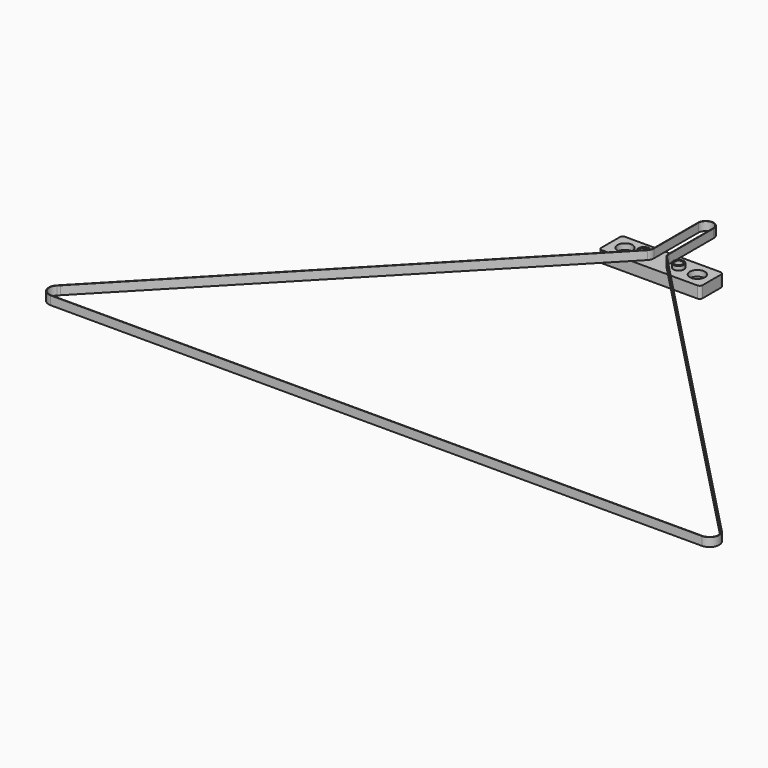
from build123d import *

# Parameters (mm, degrees)
F1_DEPTH  = 6
F2_W      = 70
F2_H      = 20
F2_R      = 2.65
F3_DEPTH  = 8
F4_R      = 5.25
F5_DEPTH  = 4
F6_R      = 3.65
F6_R_2    = 2.65
F7_DEPTH  = 2.8
F8_R      = 2
F10_DEPTH = 5
F12_R     = 2.65
F13_DEPTH = 0.3


with BuildPart() as f1:
    # F0 (on Top) → F1 (new body)
    with BuildSketch(Plane.XY):
        with BuildLine():
            ThreePointArc((-225, -6.365), (-230.8578482619, -2.4897467223), (-229.5827363738, 4.4172109219))
            Line((-229.5827363738, 4.4172109219), (-230.9895193158, 2.9577116773))
            ThreePointArc((-230.9895193158, 2.9577116773), (-230.6736193917, -3.5259669593), (-225, -6.68))
            Line((-225, -6.68), (225, -6.68))
            ThreePointArc((225, -6.68), (231.1477495637, -2.6129629354), (229.8095334569, 4.635815778))
            Line((229.8095334569, 4.635815778), (6.8366507541, 235.9641494927))
            ThreePointArc((6.8366507541, 235.9641494927), (5.780105059, 237.5935916502), (5.41, 239.5))
            Line((5.41, 239.5), (5.41, 278))
            ThreePointArc((5.41, 278), (5.3315361416, 278.9180535776), (5.0984205651, 279.809477201))
            Line((5.0984205651, 279.809477201), (5.095, 279.8136729438))
            Line((5.095, 279.8136729438), (5.095, 279.8190863091))
            ThreePointArc((5.095, 279.8190863091), (0, 283.41), (-5.095, 279.8190863091))
            Line((-5.095, 279.8190863091), (-5.095, 279.8136729438))
            Line((-5.095, 279.8136729438), (-5.0984205651, 279.809477201))
            ThreePointArc((-5.0984205651, 279.809477201), (-5.3315361416, 278.9180535776), (-5.41, 278))
            Line((-5.41, 278), (-5.41, 239.5))
            ThreePointArc((-5.41, 239.5), (-5.780105059, 237.5935916502), (-6.8366507541, 235.9641494927))
            Line((-6.8366507541, 235.9641494927), (-229.8095334569, 4.635815778))
            ThreePointArc((-229.8095334569, 4.635815778), (-229.040662868, 5.3193461616), (-228.1759538737, 5.876709708))
            Line((-228.1759538737, 5.876709708), (-6.609853892, 235.7455444074))
            ThreePointArc((-6.609853892, 235.7455444074), (-5.4879869223, 237.475727346), (-5.095, 239.5))
            Line((-5.095, 239.5), (-5.095, 278))
            ThreePointArc((-5.095, 278), (0, 283.095), (5.095, 278))
            Line((5.095, 278), (5.095, 239.5))
            ThreePointArc((5.095, 239.5), (5.5088128874, 237.4248579962), (6.6869461501, 235.6671727408))
            Line((6.6869461501, 235.6671727408), (229.4920356293, 4.5094169141))
            ThreePointArc((229.4920356293, 4.5094169141), (230.8828421557, -2.4301014734), (225, -6.365))
            Line((225, -6.365), (-225, -6.365))
        make_face()
        with BuildLine():
            Line((-230.9895193158, 2.9577116773), (-229.5827363738, 4.4172109219))
            Line((-229.5827363738, 4.4172109219), (-228.1759538737, 5.876709708))
            ThreePointArc((-228.1759538737, 5.876709708), (-229.040662868, 5.3193461616), (-229.8095334569, 4.635815778))
            ThreePointArc((-229.8095334569, 4.635815778), (-230.4643291939, 3.8423308629), (-230.9895193158, 2.9577116773))
        make_face()
        with BuildLine():
            ThreePointArc((-5.095, 279.8190863091), (-5.0967125471, 279.8142825612), (-5.0984205651, 279.809477201))
            Line((-5.0984205651, 279.809477201), (-5.095, 279.8136729438))
            Line((-5.095, 279.8136729438), (-5.095, 279.8190863091))
        make_face()
        with BuildLine():
            ThreePointArc((5.0984205651, 279.809477201), (5.0967125471, 279.8142825612), (5.095, 279.8190863091))
            Line((5.095, 279.8190863091), (5.095, 279.8136729438))
            Line((5.095, 279.8136729438), (5.0984205651, 279.809477201))
        make_face()
    extrude(amount=F1_DEPTH)


with BuildPart() as f3:
    # F2 (on Top) → F3 (new body)
    with BuildSketch(Plane.XY):
        with Locations((0, 239.5)):
            Rectangle(F2_W, F2_H)
        with Locations((-25, 239.5)):
            Circle(F2_R, mode=Mode.SUBTRACT)
        with Locations((-12.005, 239.5)):
            Circle(F2_R, mode=Mode.SUBTRACT)
        with Locations((12.005, 239.5)):
            Circle(F2_R, mode=Mode.SUBTRACT)
        with Locations((25, 239.5)):
            Circle(F2_R, mode=Mode.SUBTRACT)
    extrude(amount=F3_DEPTH)

    # F4 (on face) → F5 (cut)
    with BuildSketch(Plane.XY.offset(8)):
        with Locations((-25, 239.5)):
            Circle(F4_R)
        with Locations((25, 239.5)):
            Circle(F4_R)
    extrude(amount=-F5_DEPTH, mode=Mode.SUBTRACT)

    # F6 (on face) → F7 (join)
    with BuildSketch(Plane.XY.offset(8)):
        with Locations((-12.005, 239.5)):
            Circle(F6_R)
        with Locations((-12.005, 239.5)):
            Circle(F6_R_2, mode=Mode.SUBTRACT)
        with Locations((12.005, 239.5)):
            Circle(F6_R)
        with Locations((12.005, 239.5)):
            Circle(F6_R_2, mode=Mode.SUBTRACT)
    extrude(amount=F7_DEPTH)

    # F8
    f8_edges = [f3.edges().sort_by_distance(p)[0] for p in [
        (-35, 229.5, 4),
        (-35, 249.5, 4),
        (35, 249.5, 4),
        (35, 229.5, 4),
    ]]
    fillet(f8_edges, radius=F8_R)

    # F9 (on face) → F10 (cut)
    with BuildSketch(Plane(origin=(0, 0, 0), x_dir=(1, 0, 0), z_dir=(0, 0, -1))):
        Polygon((-8.005, -241.8094010768), (-8.005, -237.1905989232), (-12.005, -234.8811978465), (-16.005, -237.1905989232), (-16.005, -241.8094010768), (-12.005, -244.1188021535), align=None)
        Polygon((16.005, -241.8094010768), (16.005, -237.1905989232), (12.005, -234.8811978465), (8.005, -237.1905989232), (8.005, -241.8094010768), (12.005, -244.1188021535), align=None)
    extrude(amount=-F10_DEPTH, mode=Mode.SUBTRACT)


with BuildPart() as f3_1:
    # F11: moved
    add(f3.part.moved(Location((0, 0, -8))))

    # F12 (on face) → F13 (join)
    with BuildSketch(Plane(origin=(0, 0, -3), x_dir=(1, 0, 0), z_dir=(0, 0, -1))):
        with Locations((12.005, -239.5)):
            Circle(F12_R)
        with Locations((-12.005, -239.5)):
            Circle(F12_R)
    extrude(amount=-F13_DEPTH)


solid = Compound([f1.part, f3_1.part])
